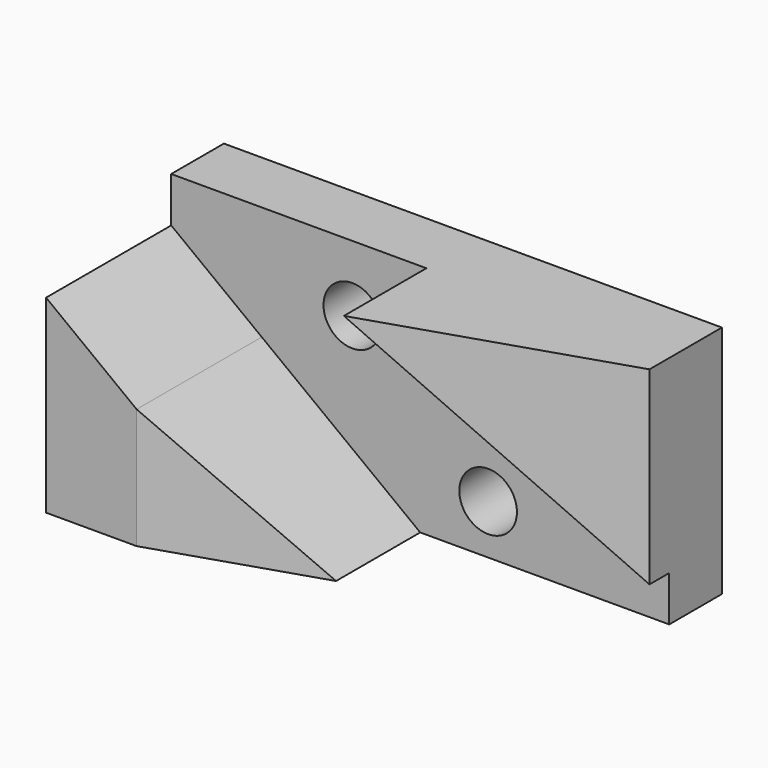
from build123d import *

# Parameters (mm, degrees)
F0_W     = 121
F0_H     = 16
F1_DEPTH = 57
F2_R     = 7
F3_DEPTH = 16.001
F4_DEPTH = 38
F5_DEPTH = 38
F7_DEPTH = 57.001


with BuildPart() as f1:
    # F0 (on Top) → F1 (new body)
    with BuildSketch(Plane.XY):
        with Locations((0, 8)):
            Rectangle(F0_W, F0_H)
    extrude(amount=F1_DEPTH)

    # F2 (on face) → F3 (cut, through all)
    with BuildSketch(Plane.XZ):
        with Locations((-16.5, 41)):
            Circle(F2_R)
        with Locations((16.5, 12)):
            Circle(F2_R)
    extrude(amount=-F3_DEPTH, mode=Mode.SUBTRACT)

    # F2 (on face) → F4 (join)
    with BuildSketch(Plane.XZ):
        Polygon((-60.5, 46), (-60.5, 0), (-38.5, 0), (-38.5, 29.272727), align=None)
        Polygon((-38.5, 29.272727), (-38.5, 0), (0, 0), align=None)
    extrude(amount=F4_DEPTH)

    # F2 (on face) → F5 (join)
    with BuildSketch(Plane.XZ):
        Polygon((60.5, 57), (1.5, 57), (60.5, 11), align=None)
    extrude(amount=F5_DEPTH)

    # F6 (on face) → F7 (cut, through all)
    with BuildSketch(Plane.XY.offset(57)):
        Polygon((0, -25.555556), (-38.5, -38), (0, -38), align=None)
        Polygon((60.5, -6), (1.5, -25.070707), (1.5, -38), (60.5, -38), align=None)
    extrude(amount=-F7_DEPTH, mode=Mode.SUBTRACT)


solid = f1.part
